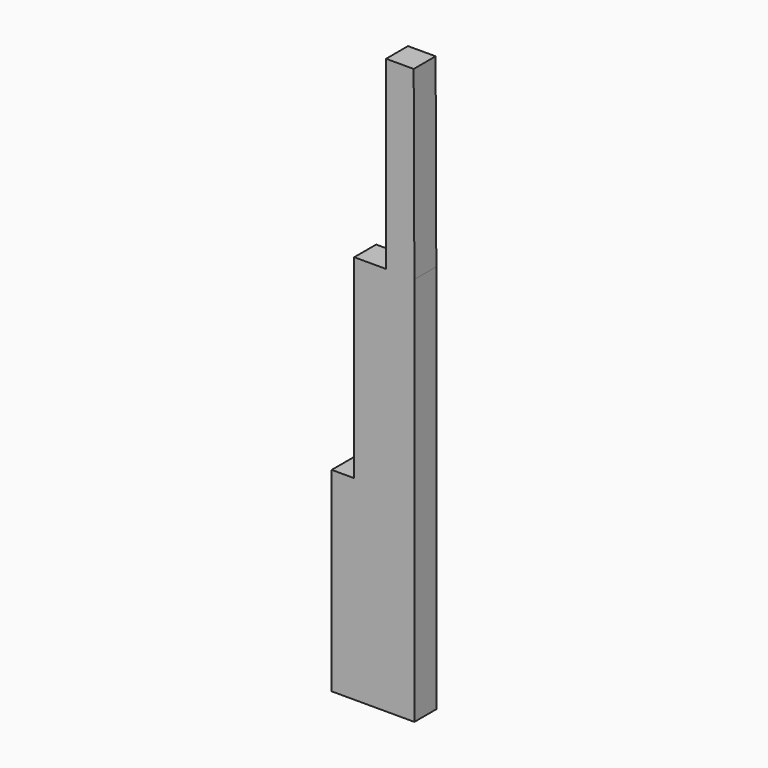
from build123d import *

# Parameters (mm, degrees)
F1_DEPTH = 25.4


with BuildPart() as f1:
    # F0 (on Front) → F1 (new body)
    with BuildSketch(Plane.XZ):
        Polygon((0, 180.64709), (0, 59.917226), (0, 0), (76.591849, 0), (76.591849, 61.627969), (76.591849, 180.158287), (76.591849, 360.8675), (50.372899, 360.8675), (20.897418, 360.8675), (20.897418, 336.934566), (20.897418, 180.64709), align=None)
        Polygon((50.372899, 360.8675), (76.591849, 360.8675), (75.956076, 532.281518), (63.164487, 532.281518), (50.372899, 532.281518), align=None)
    extrude(amount=F1_DEPTH)


solid = f1.part
